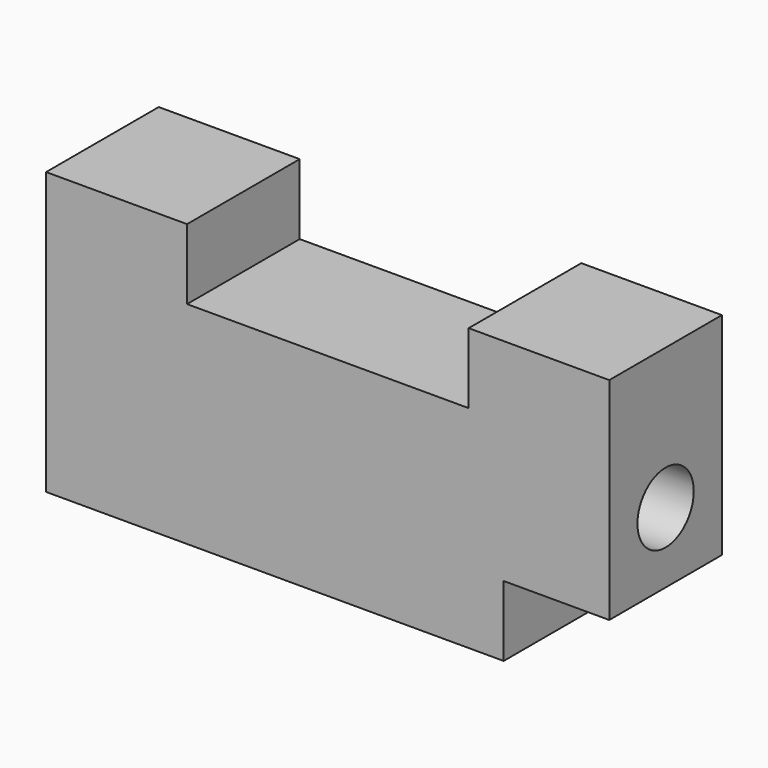
from build123d import *

# Parameters (mm, degrees)
F0_W     = 101.6
F0_H     = 50.8
F1_DEPTH = 25.4
F2_W     = 50.8
F2_H     = 12.7
F4_DEPTH = 25.4
F3_W     = 25.4
F3_H     = 12.7
F5_DEPTH = 19.05
F6_R     = 6.35
F7_DEPTH = 101.6


with BuildPart() as f1:
    # F0 (on Front) → F1 (new body)
    with BuildSketch(Plane.XZ):
        Rectangle(F0_W, F0_H)
    extrude(amount=F1_DEPTH)

    # F2 (on face) → F4 (cut)
    with BuildSketch(Plane.XZ.offset(25.4)):
        with Locations((0.033422, 19.05)):
            Rectangle(F2_W, F2_H)
    extrude(amount=-F4_DEPTH, mode=Mode.SUBTRACT)

    # F3 (on face) → F5 (cut)
    with BuildSketch(Plane.YZ.offset(50.8)):
        with Locations((-12.7, -19.05)):
            Rectangle(F3_W, F3_H)
    extrude(amount=-F5_DEPTH, mode=Mode.SUBTRACT)

    # F6 (on face) → F7 (cut)
    with BuildSketch(Plane.YZ.offset(50.8)):
        with Locations((-12.7, 0)):
            Circle(F6_R)
    extrude(amount=-F7_DEPTH, mode=Mode.SUBTRACT)


solid = f1.part
